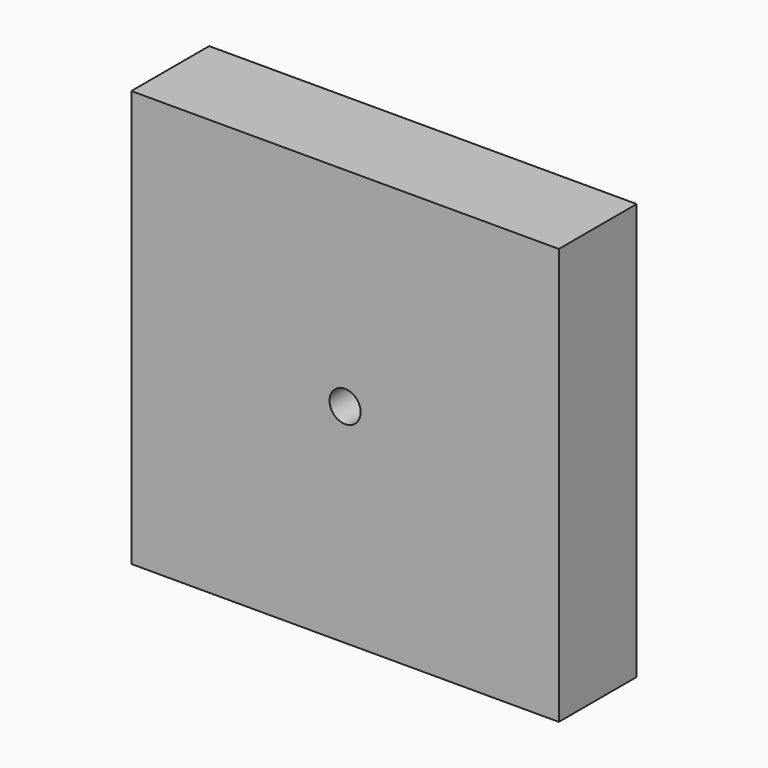
from build123d import *

# Parameters (mm, degrees)
F0_W     = 109.854222
F0_H     = 106.995612
F1_DEPTH = 25
F3_D     = 8


with BuildPart() as f1:
    # F0 (on Front) → F1 (new body)
    with BuildSketch(Plane.XZ):
        Rectangle(F0_W, F0_H)
    extrude(amount=F1_DEPTH)

    # F3 (through all)
    with Locations(Plane.XZ.offset(25)):
        with Locations((0, 0)):
            Hole(F3_D / 2)


solid = f1.part
